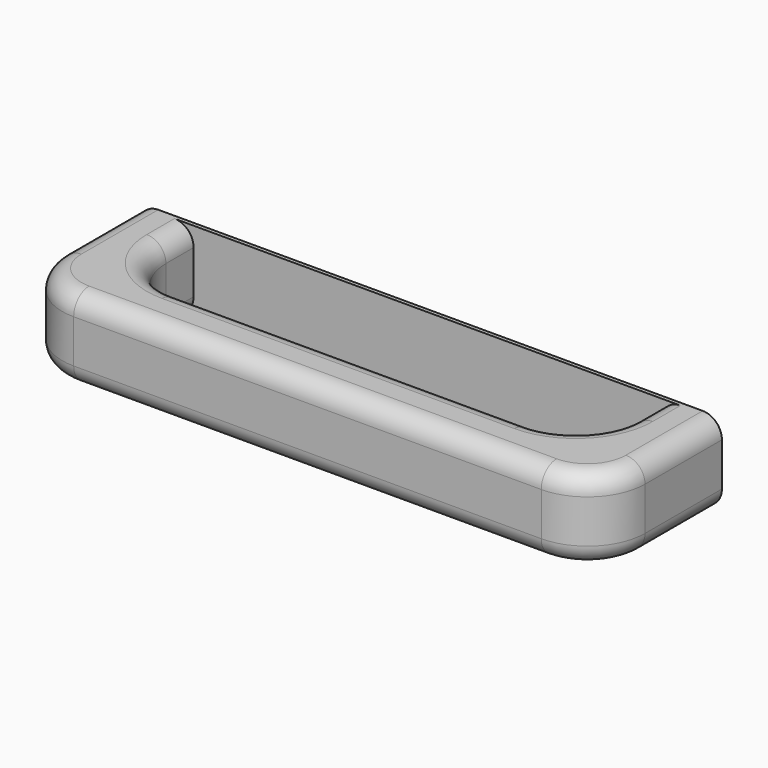
from build123d import *

# Parameters (mm, degrees)
SKETCH016_W     = 151.632408
SKETCH016_H     = 21.2714
PAD010_DEPTH    = 40
SKETCH017_W     = 121.632408
SKETCH017_H     = 24
POCKET006_DEPTH = 21.2724
FILLET008_R     = 15
FILLET009_R     = 5


with BuildPart() as part:
    # Sketch016 (on Face1 of CopyPocket005) → Pad010 (new body)
    with BuildSketch(Plane.XZ.offset(825)):
        with Locations((-597.5, -689.507206)):
            Rectangle(SKETCH016_W, SKETCH016_H)
    extrude(amount=PAD010_DEPTH)

    # Sketch017 (on Face4 of Pad010) → Pocket006 (cut, through all)
    with BuildSketch(Plane(origin=(0, 0, -678.871506), x_dir=(-1, 0, 0), z_dir=(0, 0, 1))):
        with Locations((597.5, 838)):
            Rectangle(SKETCH017_W, SKETCH017_H)
    extrude(amount=-POCKET006_DEPTH, mode=Mode.SUBTRACT)

    # Fillet008
    fillet008_edges = [part.edges().sort_by_distance(p)[0] for p in [
        (-673.316204, -865, -689.507206),
        (-521.683796, -865, -689.507206),
        (-536.683796, -850, -689.507206),
        (-658.316204, -850, -689.507206),
    ]]
    fillet(fillet008_edges, radius=FILLET008_R)

    # Fillet009
    fillet009_edges = [part.edges().sort_by_distance(p)[0] for p in [
        (-597.5, -865, -678.871506),
        (-597.5, -850, -678.871506),
        (-597.5, -850, -700.142906),
        (-597.5, -865, -700.142906),
    ]]
    fillet(fillet009_edges, radius=FILLET009_R)


solid = part.part
